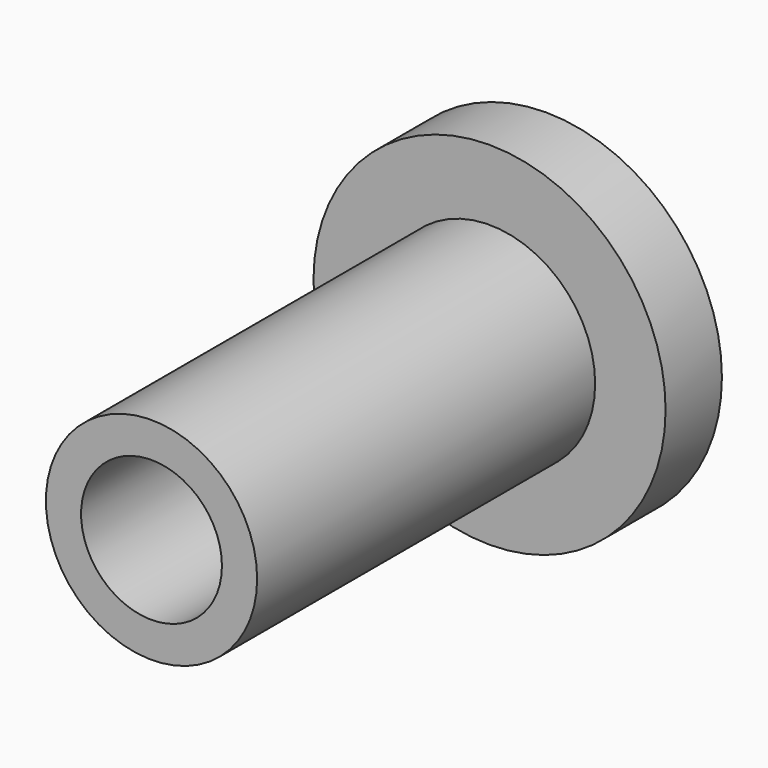
from build123d import *

# Parameters (mm, degrees)
F1_R     = 25
F1_R_2   = 15
F2_DEPTH = 10
F0_R     = 15
F0_R_2   = 10
F3_DEPTH = 70


with BuildPart() as f2:
    # F1 (on face) → F2 (new body)
    with BuildSketch(Plane.XZ):
        Circle(F1_R)
        Circle(F1_R_2, mode=Mode.SUBTRACT)
    extrude(amount=F2_DEPTH)

    # F0 (on Front) → F3 (join)
    with BuildSketch(Plane.XZ):
        Circle(F0_R)
        Circle(F0_R_2, mode=Mode.SUBTRACT)
    extrude(amount=F3_DEPTH)


solid = f2.part
